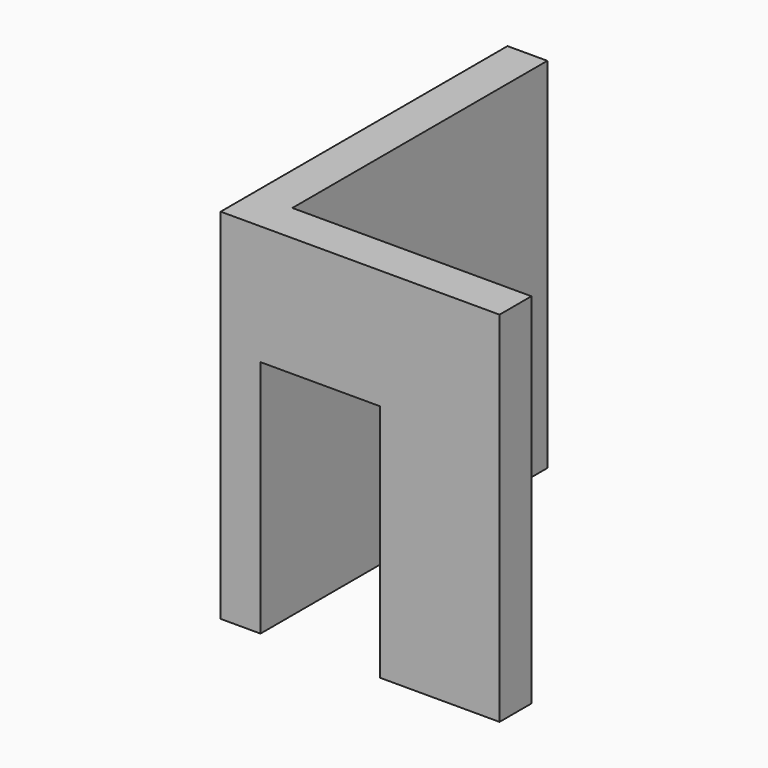
from build123d import *

# Parameters (mm, degrees)
BOX016_W     = 3
BOX016_H     = 1
BOX016_DEPTH = 3
BOX015_W     = 1
BOX015_H     = 9
BOX015_DEPTH = 9
BOX014_W     = 3
BOX014_H     = 1
BOX014_DEPTH = 9


with BuildPart() as box016:
    # Box016 → Box016 (new body)
    with BuildSketch(Plane(origin=(27, 15, 7), x_dir=(1, 0, 0), z_dir=(0, 0, 1))):
        with Locations((1.5, 0.5)):
            Rectangle(BOX016_W, BOX016_H)
    extrude(amount=BOX016_DEPTH)


with BuildPart() as box015:
    # Box015 → Box015 (new body)
    with BuildSketch(Plane(origin=(26, 15, 1), x_dir=(1, 0, 0), z_dir=(0, 0, 1))):
        with Locations((0.5, 4.5)):
            Rectangle(BOX015_W, BOX015_H)
    extrude(amount=BOX015_DEPTH)


with BuildPart() as fusion:
    # Box014 → Box014 (new body)
    with BuildSketch(Plane(origin=(30, 15, 1), x_dir=(1, 0, 0), z_dir=(0, 0, 1))):
        with Locations((1.5, 0.5)):
            Rectangle(BOX014_W, BOX014_H)
    extrude(amount=BOX014_DEPTH)

    # Fusion: union Box016, Box015
    add(box016.part)
    add(box015.part)


with BuildPart() as fusion_1:
    # Fusion placement: moved
    add(fusion.part.moved(Location((11, 0, 0))))


solid = fusion_1.part
